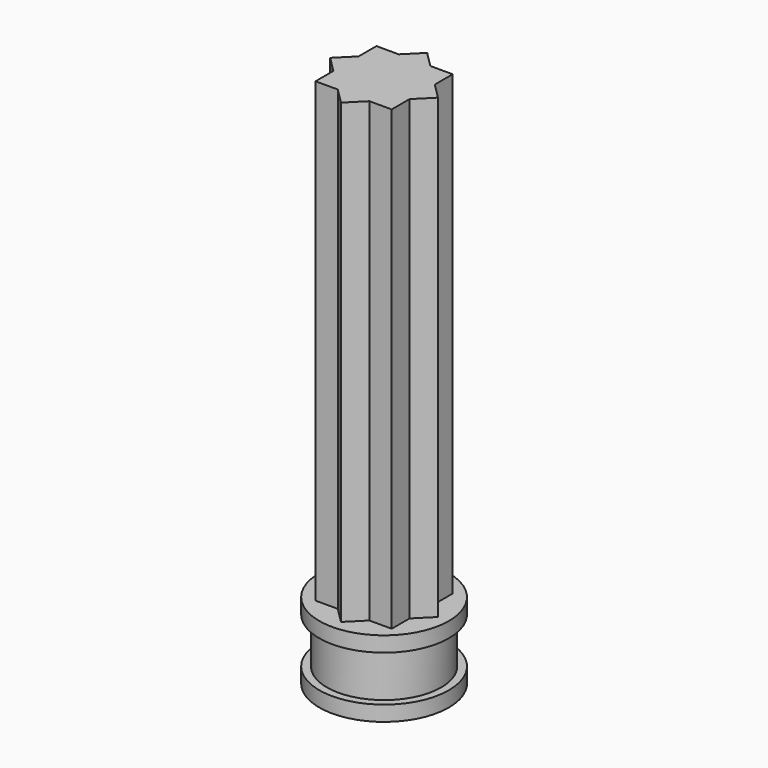
from build123d import *

# Parameters (mm, degrees)
F1_DEPTH = 30
F2_R     = 4.25
F3_DEPTH = 5
F5_R     = 4.25
F5_R_2   = 3.75
F6_DEPTH = 3
F7_R     = 1.5
F8_DEPTH = 5


with BuildPart() as f1:
    # F0 (on Top) → F1 (new body)
    with BuildSketch(Plane.XY):
        Polygon((-2.5, -1.0355339059), (-2.5, -2.5), (-1.0355339059, -2.5), align=None)
        Polygon((-2.5, -1.0355339059), (-1.0355339059, -2.5), (1.0355339059, -2.5), (2.5, -1.0355339059), (2.5, 1.0355339059), (1.0355339059, 2.5), (-1.0355339059, 2.5), (-2.5, 1.0355339059), align=None)
        Polygon((1.0355339059, -2.5), (-1.0355339059, -2.5), (0, -3.5355339059), align=None)
        Polygon((-3.5355339059, 0), (-2.5, -1.0355339059), (-2.5, 1.0355339059), align=None)
        Polygon((2.5, -1.0355339059), (1.0355339059, -2.5), (2.5, -2.5), align=None)
        Polygon((-2.5, 2.5), (-2.5, 1.0355339059), (-1.0355339059, 2.5), align=None)
        Polygon((2.5, 1.0355339059), (2.5, -1.0355339059), (3.5355339059, 0), align=None)
        Polygon((0, 3.5355339059), (-1.0355339059, 2.5), (1.0355339059, 2.5), align=None)
        Polygon((1.0355339059, 2.5), (2.5, 1.0355339059), (2.5, 2.5), align=None)
    extrude(amount=F1_DEPTH)

    # F2 (on face) → F3 (join)
    with BuildSketch(Plane(origin=(0, 0, 0), x_dir=(1, 0, 0), z_dir=(0, 0, -1))):
        Circle(F2_R)
    extrude(amount=F3_DEPTH)

    # F5 (on offset) → F6 (cut)
    with BuildSketch(Plane(origin=(0, 0, -4), x_dir=(1, 0, 0), z_dir=(0, 0, -1))):
        Circle(F5_R)
        Circle(F5_R_2, mode=Mode.SUBTRACT)
    extrude(amount=-F6_DEPTH, mode=Mode.SUBTRACT)

    # F7 (on Top) → F8 (cut)
    with BuildSketch(Plane.XY):
        Circle(F7_R)
    extrude(amount=-F8_DEPTH, mode=Mode.SUBTRACT)


solid = f1.part
